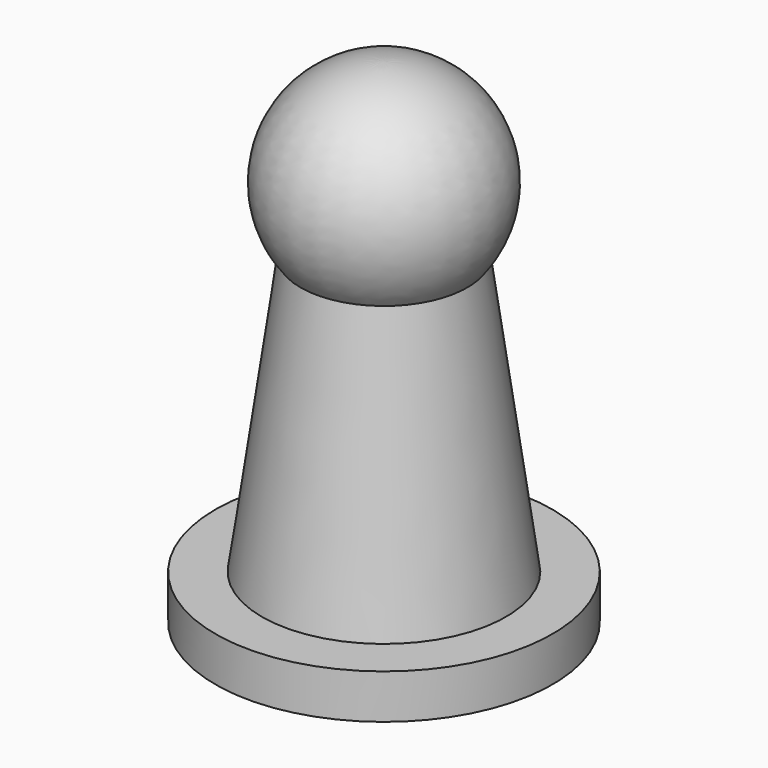
from build123d import *


with BuildPart() as f1:
    # F0 (on Front) → F1 (revolve)
    with BuildSketch(Plane.XZ):
        with BuildLine():
            Line((-13.846153, 5.041556), (0, 5.041556))
            Line((0, 5.041556), (0, 31.899357))
            ThreePointArc((0, 31.899357), (-5.258901, 33.107804), (-9.462752, 36.490704))
            Line((-9.462752, 36.490704), (-13.846153, 5.041556))
        make_face()
        Polygon((-19.11569, 0), (0, 0), (0, 5.041556), (-13.846153, 5.041556), (-19.11569, 5.041556), align=None)
        with BuildLine():
            ThreePointArc((-9.462752, 36.490704), (-5.258901, 33.107804), (0, 31.899357))
            Line((0, 31.899357), (0, 55.993406))
            ThreePointArc((0, 55.993406), (-10.838578, 49.205282), (-9.462752, 36.490704))
        make_face()
    revolve(axis=Axis((0, 0, 27.996703), (0, 0, -1)))


solid = f1.part
